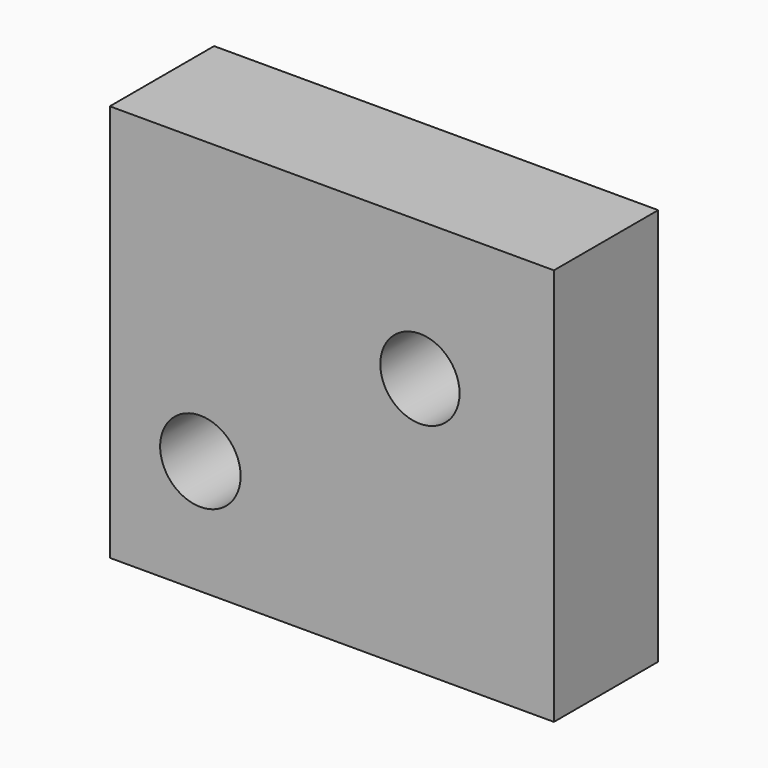
from build123d import *

# Parameters (mm, degrees)
F0_W     = 17.65
F0_H     = 15.8
F1_DEPTH = 5.18
F2_R     = 1.6
F2_R_2   = 1.575
F3_DEPTH = 5.181


with BuildPart() as f1:
    # F0 (on Front) → F1 (new body)
    with BuildSketch(Plane.XZ):
        Rectangle(F0_W, F0_H)
    extrude(amount=F1_DEPTH)

    # F2 (on face) → F3 (cut, through all)
    with BuildSketch(Plane.XZ.offset(5.18)):
        with Locations((-5.225, -3.35)):
            Circle(F2_R)
        with Locations((3.5, 2.375)):
            Circle(F2_R_2)
    extrude(amount=-F3_DEPTH, mode=Mode.SUBTRACT)


solid = f1.part
